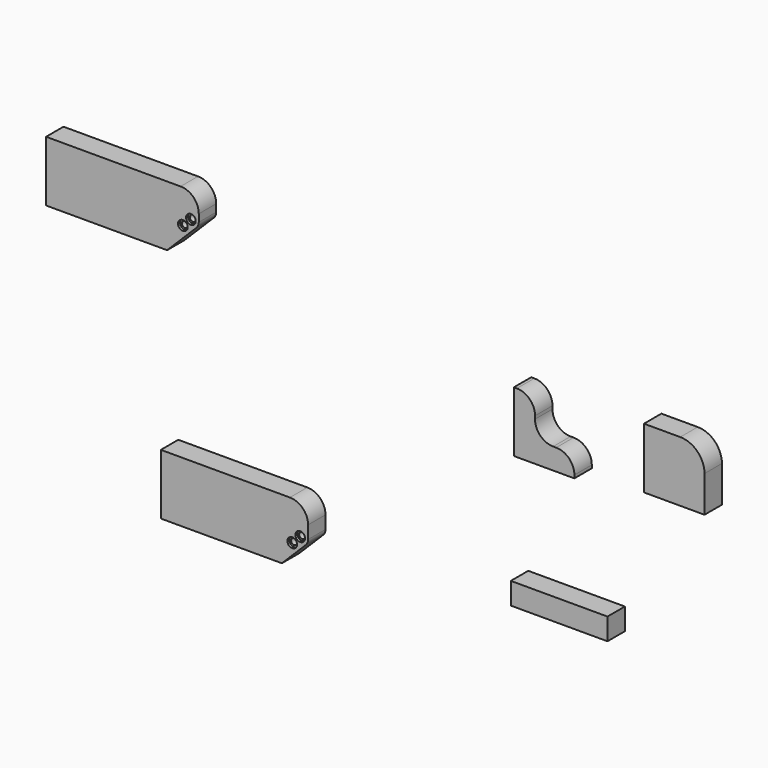
from build123d import *

# Parameters (mm, degrees)
F0_R     = 2.5
F0_W     = 24.763633
F0_H     = 18
F1_DEPTH = 18
F2_R     = 4
F3_DEPTH = 2


with BuildPart() as f1:
    # F0 (on Front) → F1 (new body)
    with BuildSketch(Plane.XZ):
        with BuildLine():
            Line((0, 50), (0, 0))
            Line((0, 0), (100, 0))
            Line((100, 0), (119.742641, 19.742641))
            ThreePointArc((119.742641, 19.742641), (121.151664, 21.851392), (121.646447, 24.338835))
            Line((121.646447, 24.338835), (121.646447, 35))
            ThreePointArc((121.646447, 35), (117.253048, 45.606602), (106.646447, 50))
            Line((106.646447, 50), (0, 50))
        make_face()
        with Locations((108.534998, 17.727386)):
            Circle(F0_R, mode=Mode.SUBTRACT)
        with Locations((115.146447, 24.338835)):
            Circle(F0_R, mode=Mode.SUBTRACT)
        Polygon((289.162288, 48.72342), (289.162288, 30.72342), (344.248186, 30.72342), (326.248186, 48.72342), align=None)
        Polygon((326.248186, 48.72342), (344.248186, 30.72342), (344.248186, 48.72342), align=None)
        with Locations((356.630002, 39.72342)):
            Rectangle(F0_W, F0_H)
        with BuildLine():
            Line((-94.821793, 246.876671), (-94.821793, 196.876671))
            Line((-94.821793, 196.876671), (5.178207, 196.876671))
            Line((5.178207, 196.876671), (29.420848, 221.119311))
            ThreePointArc((29.420848, 221.119311), (30.82987, 223.228063), (31.324654, 225.715506))
            Line((31.324654, 225.715506), (31.324654, 231.876671))
            ThreePointArc((31.324654, 231.876671), (26.931255, 242.483272), (16.324654, 246.876671))
            Line((16.324654, 246.876671), (-94.821793, 246.876671))
        make_face()
        with Locations((18.213205, 219.104057)):
            Circle(F0_R, mode=Mode.SUBTRACT)
        with Locations((24.824654, 225.715506)):
            Circle(F0_R, mode=Mode.SUBTRACT)
        with BuildLine():
            Line((291.666616, 190.336287), (291.666616, 140.336287))
            Line((291.666616, 140.336287), (341.666616, 140.336287))
            Line((341.666616, 140.336287), (341.666616, 142.836287))
            ThreePointArc((341.666616, 142.836287), (337.273218, 153.442889), (326.666616, 157.836287))
            Line((326.666616, 157.836287), (324.166616, 157.836287))
            ThreePointArc((324.166616, 157.836287), (313.560015, 162.229686), (309.166616, 172.836287))
            Line((309.166616, 172.836287), (309.166616, 175.336287))
            ThreePointArc((309.166616, 175.336287), (304.773218, 185.942889), (294.166616, 190.336287))
            Line((294.166616, 190.336287), (291.666616, 190.336287))
        make_face()
        with BuildLine():
            Line((399.177194, 198.830205), (399.177194, 148.830205))
            Line((399.177194, 148.830205), (449.177194, 148.830205))
            Line((449.177194, 148.830205), (449.177194, 178.830205))
            ThreePointArc((449.177194, 178.830205), (443.319329, 192.972341), (429.177194, 198.830205))
            Line((429.177194, 198.830205), (399.177194, 198.830205))
        make_face()
    extrude(amount=F1_DEPTH)

    # F2 (on face) → F3 (cut)
    with BuildSketch(Plane.XZ.offset(18)):
        with Locations((18.213205, 219.104057)):
            Circle(F2_R)
        with Locations((24.824654, 225.715506)):
            Circle(F2_R)
        with Locations((115.146447, 24.338835)):
            Circle(F2_R)
        with Locations((108.534998, 17.727386)):
            Circle(F2_R)
    extrude(amount=-F3_DEPTH, mode=Mode.SUBTRACT)


solid = f1.part
